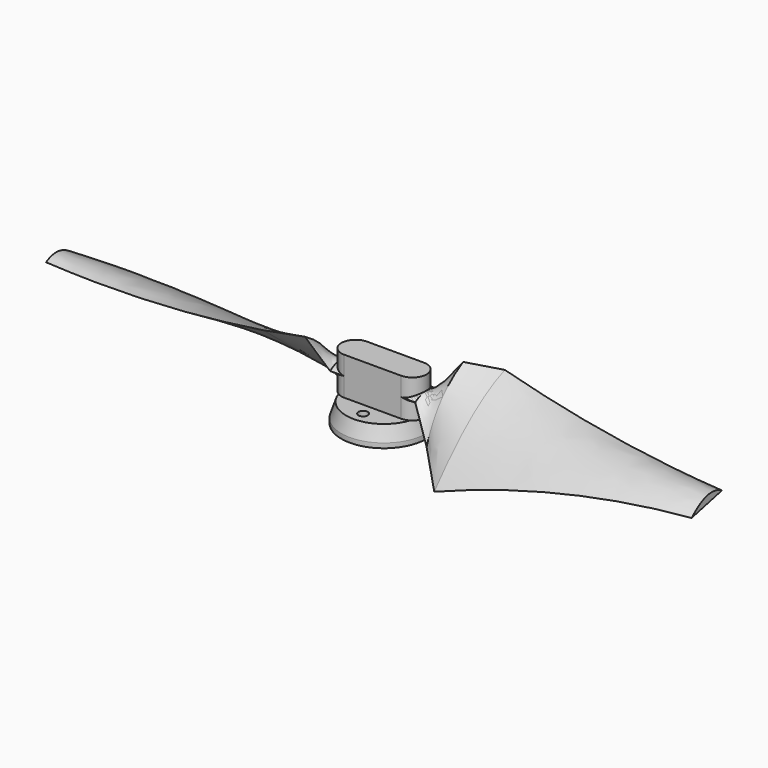
from build123d import *

# Parameters (mm, degrees)
CLONE_PLACEMENT_ANGLE = 180
PAD_DEPTH             = 4
SKETCH008_R           = 8
SKETCH009_R           = 9
SKETCH010_R           = 1
POCKET_DEPTH          = 5.485014
SKETCH011_R           = 9
SKETCH011_R_2         = 8.2
PAD001_DEPTH          = 1


with BuildPart() as loft002:
    # Sketch001 → Loft002 section 0
    with BuildSketch(Plane.YZ.offset(20)):
        with BuildLine():
            Line((-11.724329, -9.484014), (6.919531, 5.597329))
            add(Edge.make_bspline(
                [(-11.724329, -9.484014), (-1.88674, 2.332426), (6.919531, 5.597329)],
                knots=[0, 0, 0, 1, 1, 1], degree=2))
        make_face()
    # Sketch002 → Loft002 section 1
    with BuildSketch(Plane.YZ.offset(50)):
        with BuildLine():
            Line((-7.601952, -2.45976), (4.519308, 1.46231))
            add(Edge.make_bspline(
                [(4.519308, 1.46231), (-0.923564, 2.8543), (-7.601952, -2.45976)],
                knots=[0, 0, 0, 1, 1, 1], degree=2))
        make_face()
    # Sketch003 → Loft002 section 2
    with BuildSketch(Plane.YZ.offset(69)):
        with BuildLine():
            Line((-4.994664, -1.170568), (2.998746, 0.702797))
            add(Edge.make_bspline(
                [(2.998746, 0.702797), (-0.684543, 2.920856), (-4.994664, -1.170568)],
                knots=[0, 0, 0, 1, 1, 1], degree=2))
        make_face()
    loft()


with BuildPart() as loft001:
    # Sketch005 → Loft001 section 0
    with BuildSketch(Plane.YZ.offset(9)):
        with BuildLine():
            add(Edge.make_bspline(
                [(3, 0), (0, 2), (-3, 0)],
                knots=[0, 0, 0, 1, 1, 1], degree=2))
            ThreePointArc((-3, 0), (0, -1), (3, 0))
        make_face()
    # Sketch006 → Loft001 section 1
    with BuildSketch(Plane.YZ.offset(13)):
        with BuildLine():
            Line((-4.998783, -6.181802), (4.634092, 5.730802))
            add(Edge.make_bspline(
                [(4.634092, 5.730802), (-2.332755, 1.886333), (-4.998783, -6.181802)],
                knots=[0, 0, 0, 1, 1, 1], degree=2))
        make_face()
    # Sketch001 → Loft001 section 2
    with BuildSketch(Plane.YZ.offset(20)):
        with BuildLine():
            Line((-11.724329, -9.484014), (6.919531, 5.597329))
            add(Edge.make_bspline(
                [(-11.724329, -9.484014), (-1.88674, 2.332426), (6.919531, 5.597329)],
                knots=[0, 0, 0, 1, 1, 1], degree=2))
        make_face()
    loft(ruled=True)


with BuildPart() as loft_body:
    # Sketch004 → Loft section 0
    with BuildSketch(Plane.YZ):
        with BuildLine():
            ThreePointArc((-1, 2), (-3, 0), (-1, -2))
            Line((-1, -2), (1, -2))
            ThreePointArc((1, -2), (3, 0), (1, 2))
            Line((1, 2), (-1, 2))
        make_face()
    # Sketch005 → Loft section 1
    with BuildSketch(Plane.YZ.offset(9)):
        with BuildLine():
            add(Edge.make_bspline(
                [(3, 0), (0, 2), (-3, 0)],
                knots=[0, 0, 0, 1, 1, 1], degree=2))
            ThreePointArc((-3, 0), (0, -1), (3, 0))
        make_face()
    loft()


with BuildPart() as fusion002:
    # Fusion base: copy of Loft body
    add(loft_body.part)

    # Fusion: union Loft001
    add(loft001.part)

    # Fusion002: union Loft002
    add(loft002.part)


with BuildPart() as fusion003:
    # Clone base: copy of Fusion002
    add(fusion002.part)


with BuildPart() as fusion003_1:
    # Clone placement: moved
    add(fusion003.part.rotate(Axis((0, 0, 0), (0, 0, 1)), CLONE_PLACEMENT_ANGLE))


with BuildPart() as body:
    # Fusion003 base: copy of Fusion002
    add(fusion002.part)

    # Fusion003: union Fusion003
    add(fusion003_1.part)

    # Sketch007 → Pad (new body, symmetric)
    with BuildSketch(Plane.XY):
        with BuildLine():
            ThreePointArc((-6, 3), (-9, 0), (-6, -3))
            Line((-6, -3), (6, -3))
            ThreePointArc((6, -3), (9, 0), (6, 3))
            Line((6, 3), (-6, 3))
        make_face()
    extrude(amount=PAD_DEPTH, both=True)

    # Sketch008 (on Face3 of Pad) → AdditiveLoft section 0
    with BuildSketch(Plane(origin=(0, 0, -4), x_dir=(1, 0, 0), z_dir=(0, 0, -1))):
        Circle(SKETCH008_R)
    # Sketch009 (on DatumPlane) → AdditiveLoft section 1
    with BuildSketch(Plane.XY.offset(-7)):
        Circle(SKETCH009_R)
    loft()

    # Sketch010 (on Face5 of AdditiveLoft) → Pocket (cut, through all)
    with BuildSketch(Plane.XY.offset(-4)):
        with Locations((0, 5.5)):
            Circle(SKETCH010_R)
        with Locations((0, -5.5)):
            Circle(SKETCH010_R)
    extrude(amount=-POCKET_DEPTH, mode=Mode.SUBTRACT)

    # Sketch011 (on Face31 of Pocket) → Pad001 (join)
    with BuildSketch(Plane(origin=(0, 0, -7), x_dir=(1, 0, 0), z_dir=(0, 0, -1))):
        Circle(SKETCH011_R)
        Circle(SKETCH011_R_2, mode=Mode.SUBTRACT)
    extrude(amount=PAD001_DEPTH)


with BuildPart() as fusion001:
    # Fusion001 base: copy of Loft body
    add(loft_body.part)

    # Fusion001: union Loft001
    add(loft001.part)


solid = Compound([body.part, fusion001.part])
